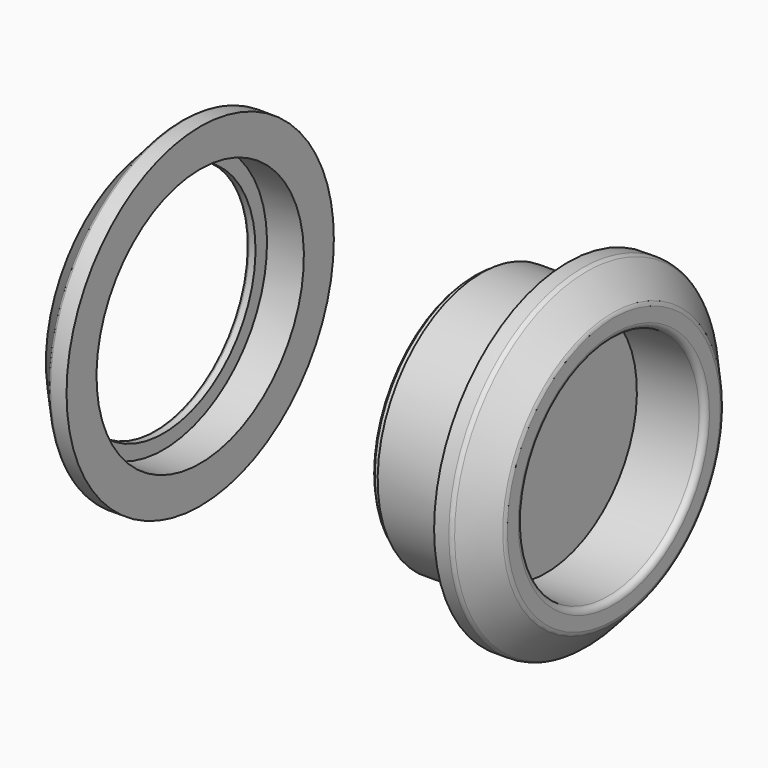
from build123d import *

# Parameters (mm, degrees)
F3_R    = 1
F4_SIZE = 0.5
F7_R    = 0.5


with BuildPart() as f2:
    # F0 (on Front) → F2 (revolve)
    with BuildSketch(Plane.XZ):
        Polygon((-2.8, 0), (0, 0), (0, 19.75), (11.8, 19.75), (11.8, 23.5), (6.8, 29), (3.8, 29), (3.8, 22.5), (-11.2, 22.5), (-11.2, 21.75), (-12.8, 21.75), (-12.8, 20), (-2.8, 20), align=None)
    revolve(axis=Axis((1.799752, 0, 0), (1, 0, 0)))

    # F3
    f3_edges = [f2.edges().sort_by_distance(p)[0] for p in [
        (11.8, 0, -23.5),
        (11.8, 0, -19.75),
        (6.8, 0, -29),
    ]]
    fillet(f3_edges, radius=F3_R)

    # F4
    f4_edges = [f2.edges().sort_by_distance(p)[0] for p in [
        (-12.8, 0, -21.75),
        (-12.8, 0, -20),
    ]]
    chamfer(f4_edges, length=F4_SIZE)


with BuildPart() as f6:
    # F5 (on Front) → F6 (revolve)
    with BuildSketch(Plane.XZ):
        Polygon((-66.4, 22.5), (-60, 22.5), (-60, 29), (-63, 29), (-68, 23.5), (-68, 20), (-66.4, 20), align=None)
    revolve(axis=Axis((1.799752, 0, 0), (1, 0, 0)))

    # F7
    f7_edges = [f6.edges().sort_by_distance(p)[0] for p in [
        (-68, 0, -23.5),
        (-63, 0, -29),
        (-68, 0, -20),
    ]]
    fillet(f7_edges, radius=F7_R)


solid = Compound([f2.part, f6.part])
